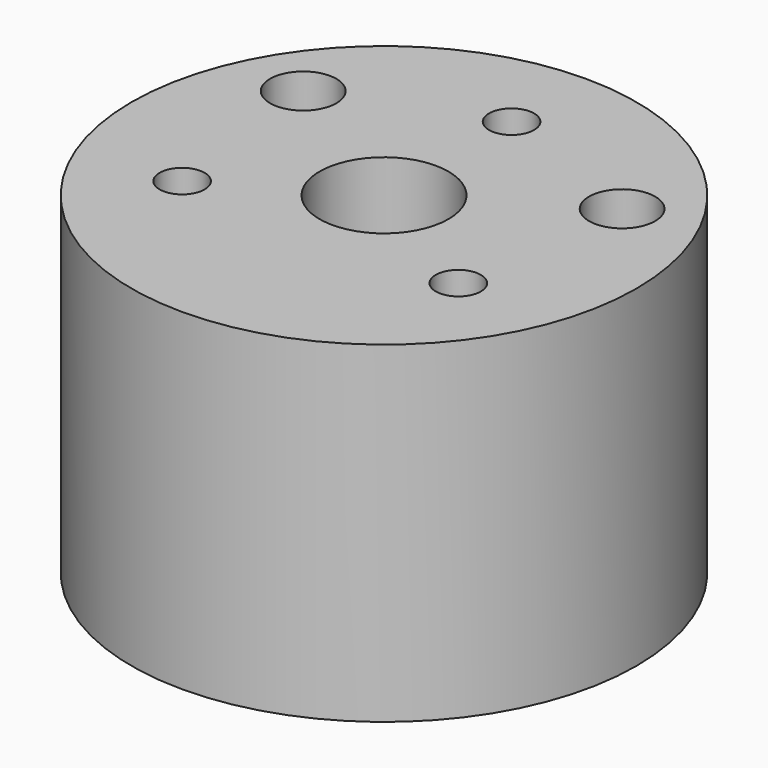
from build123d import *

# Parameters (mm, degrees)
F0_R     = 19
F0_R_2   = 1.694825
F0_R_3   = 2.493081
F0_R_4   = 4.85
F1_DEPTH = 25


with BuildPart() as f1:
    # F0 (on Top) → F1 (new body)
    with BuildSketch(Plane.XY):
        Circle(F0_R)
        with Locations((-10.392305, -6)):
            Circle(F0_R_2, mode=Mode.SUBTRACT)
        with Locations((10.392305, -6)):
            Circle(F0_R_2, mode=Mode.SUBTRACT)
        with Locations((-12, 7.398982)):
            Circle(F0_R_3, mode=Mode.SUBTRACT)
        Circle(F0_R_4, mode=Mode.SUBTRACT)
        with Locations((12, 7.398982)):
            Circle(F0_R_3, mode=Mode.SUBTRACT)
        with Locations((0, 12)):
            Circle(F0_R_2, mode=Mode.SUBTRACT)
    extrude(amount=F1_DEPTH)


solid = f1.part
